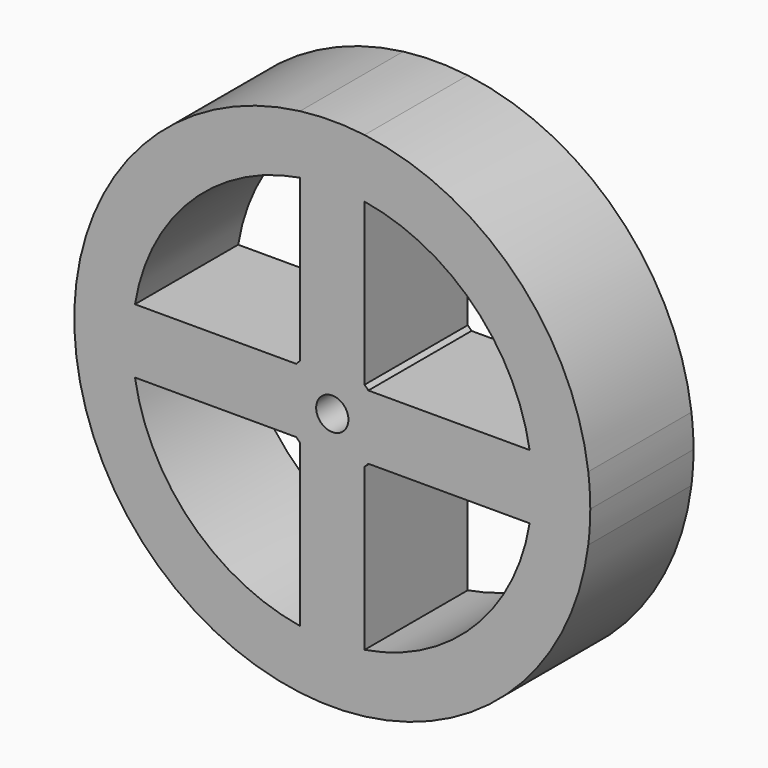
from build123d import *

# Parameters (mm, degrees)
F0_R     = 2.5
F1_DEPTH = 10


with BuildPart() as f1:
    # F0 (on Front) → F1 (new body, symmetric)
    with BuildSketch(Plane.XZ):
        with BuildLine():
            ThreePointArc((39.68627, -5), (39.92149, -2.504917), (40, 0))
            ThreePointArc((40, 0), (39.92149, 2.504917), (39.68627, 5))
            ThreePointArc((39.68627, 5), (28.284271, 28.284271), (5, 39.68627))
            ThreePointArc((5, 39.68627), (0, 40), (-5, 39.68627))
            ThreePointArc((-5, 39.68627), (-28.284271, 28.284271), (-39.68627, 5))
            ThreePointArc((-39.68627, 5), (-40, 0), (-39.68627, -5))
            ThreePointArc((-39.68627, -5), (-28.284271, -28.284271), (-5, -39.68627))
            ThreePointArc((-5, -39.68627), (0, -40), (5, -39.68627))
            ThreePointArc((5, -39.68627), (28.284271, -28.284271), (39.68627, -5))
        make_face()
        with BuildLine():
            ThreePointArc((-5.59017, -5), (-5.303301, -5.303301), (-5, -5.59017))
            Line((-5, -5.59017), (-5, -30.594117))
            ThreePointArc((-5, -30.594117), (-21.92031, -21.92031), (-30.594117, -5))
            Line((-30.594117, -5), (-5.59017, -5))
        make_face(mode=Mode.SUBTRACT)
        with BuildLine():
            ThreePointArc((30.594117, -5), (21.92031, -21.92031), (5, -30.594117))
            Line((5, -30.594117), (5, -5.59017))
            ThreePointArc((5, -5.59017), (5.303301, -5.303301), (5.59017, -5))
            Line((5.59017, -5), (30.594117, -5))
        make_face(mode=Mode.SUBTRACT)
        with BuildLine():
            ThreePointArc((-30.594117, 5), (-21.92031, 21.92031), (-5, 30.594117))
            Line((-5, 30.594117), (-5, 5.59017))
            ThreePointArc((-5, 5.59017), (-5.303301, 5.303301), (-5.59017, 5))
            Line((-5.59017, 5), (-30.594117, 5))
        make_face(mode=Mode.SUBTRACT)
        Circle(F0_R, mode=Mode.SUBTRACT)
        with BuildLine():
            Line((30.594117, 5), (5.59017, 5))
            ThreePointArc((5.59017, 5), (5.303301, 5.303301), (5, 5.59017))
            Line((5, 5.59017), (5, 30.594117))
            ThreePointArc((5, 30.594117), (21.92031, 21.92031), (30.594117, 5))
        make_face(mode=Mode.SUBTRACT)
    extrude(amount=F1_DEPTH, both=True)


solid = f1.part
